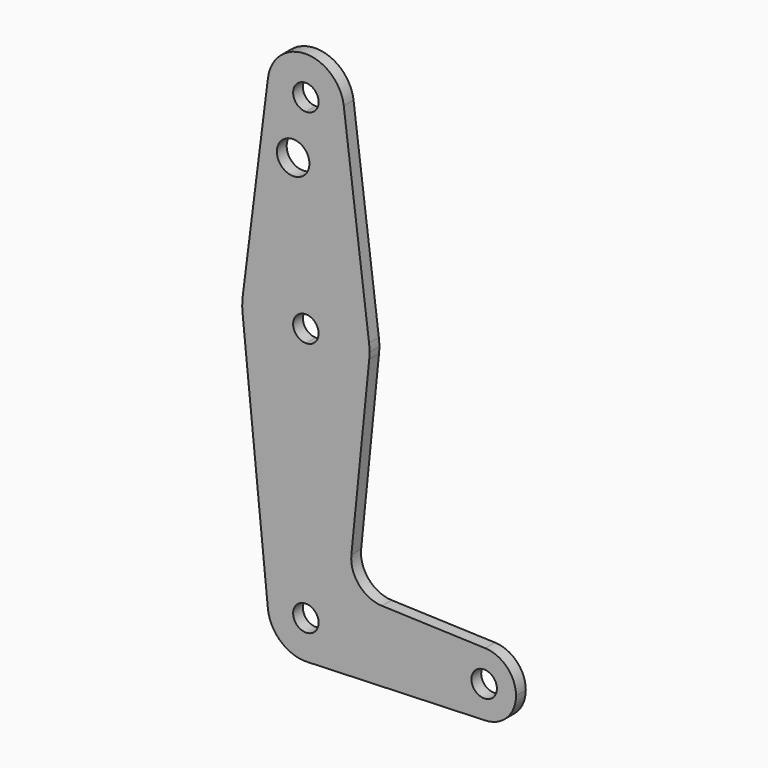
from build123d import *

# Parameters (mm, degrees)
F1_DEPTH = 3.048


with BuildPart() as f1:
    # F0 (on Front) → F1 (new body)
    with BuildSketch(Plane.XZ):
        with BuildLine():
            ThreePointArc((-9.4502929642, 67.401224344), (-7.14375, 59.9104040346), (0, 56.685599344))
            ThreePointArc((0, 56.685599344), (6.7351920908, 59.4754072532), (9.525, 66.210599344))
            ThreePointArc((9.525, 66.210599344), (9.5063048942, 66.807082586), (9.4502929642, 67.401224344))
            ThreePointArc((9.4502929642, 67.401224344), (0, 75.735599344), (-9.4502929642, 67.401224344))
        make_face()
        with BuildLine():
            ThreePointArc((3.175, 66.210599344), (2.2450640303, 63.9655353138), (0, 63.035599344))
            ThreePointArc((0, 63.035599344), (-2.2450640303, 68.4556633743), (3.175, 66.210599344))
        make_face(mode=Mode.SUBTRACT)
        with BuildLine():
            ThreePointArc((9.525, 66.210599344), (6.7351920908, 59.4754072532), (0, 56.685599344))
            Line((0, 56.685599344), (0, 54.4579379532))
            ThreePointArc((0, 54.4579379532), (0.6535739364, 53.2714002489), (0.8798499558, 51.935799344))
            ThreePointArc((0.8798499558, 51.935799344), (0.6535739364, 50.6001984391), (0, 49.4136607348))
            Line((0, 49.4136607348), (0, 31.285599344))
            ThreePointArc((0, 31.285599344), (10.5003255158, 27.316849344), (15.7504882737, 17.394974344))
            Line((15.7504882737, 17.394974344), (9.4502929642, 67.401224344))
            ThreePointArc((9.4502929642, 67.401224344), (9.5063048942, 66.807082586), (9.525, 66.210599344))
        make_face()
        with BuildLine():
            Line((0, 54.4579379532), (0, 56.685599344))
            ThreePointArc((0, 56.685599344), (-7.14375, 59.9104040346), (-9.4502929642, 67.401224344))
            Line((-9.4502929642, 67.401224344), (-15.7504882737, 17.394974344))
            ThreePointArc((-15.7504882737, 17.394974344), (-10.5003255158, 27.316849344), (0, 31.285599344))
            Line((0, 31.285599344), (0, 49.4136607348))
            ThreePointArc((0, 49.4136607348), (-7.2298499558, 51.935799344), (0, 54.4579379532))
        make_face()
        with BuildLine():
            ThreePointArc((0, 31.285599344), (-10.5003255158, 27.316849344), (-15.7504882737, 17.394974344))
            ThreePointArc((-15.7504882737, 17.394974344), (-15.8737438155, 15.6103048308), (-15.7954255641, 13.823099344))
            ThreePointArc((-15.7954255641, 13.823099344), (-10.6492737428, 3.6373842458), (0, -0.464400656))
            Line((0, -0.464400656), (0, 12.235599344))
            ThreePointArc((0, 12.235599344), (-3.175, 15.410599344), (0, 18.585599344))
            Line((0, 18.585599344), (0, 31.285599344))
        make_face()
        with BuildLine():
            ThreePointArc((15.7504882737, 17.394974344), (10.5003255158, 27.316849344), (0, 31.285599344))
            Line((0, 31.285599344), (0, 18.585599344))
            ThreePointArc((0, 18.585599344), (2.2450640303, 17.6556633743), (3.175, 15.410599344))
            ThreePointArc((3.175, 15.410599344), (2.2450640303, 13.1655353138), (0, 12.235599344))
            Line((0, 12.235599344), (0, -0.464400656))
            ThreePointArc((0, -0.464400656), (10.6492737428, 3.6373842458), (15.7954255641, 13.823099344))
            ThreePointArc((15.7954255641, 13.823099344), (15.8550939106, 14.61585279), (15.875, 15.410599344))
            ThreePointArc((15.875, 15.410599344), (15.8438414904, 16.4047380807), (15.7504882737, 17.394974344))
        make_face()
        with BuildLine():
            ThreePointArc((0, -0.464400656), (-10.6492737428, 3.6373842458), (-15.7954255641, 13.823099344))
            Line((-15.7954255641, 13.823099344), (-9.4772553384, -49.041900656))
            ThreePointArc((-9.4772553384, -49.041900656), (-7.063929059, -41.6998364103), (0, -38.564400656))
            Line((0, -38.564400656), (0, -0.464400656))
        make_face()
        with BuildLine():
            ThreePointArc((15.7954255641, 13.823099344), (10.6492737428, 3.6373842458), (0, -0.464400656))
            Line((0, -0.464400656), (0, -38.564400656))
            ThreePointArc((0, -38.564400656), (6.7351920908, -41.3542085652), (9.525, -48.089400656))
            Line((9.525, -48.089400656), (36.5125, -48.089400656))
            ThreePointArc((36.5125, -48.089400656), (38.9384772185, -42.3773937513), (44.7334821429, -40.1569644523))
            Line((44.7334821429, -40.1569644523), (18.9676000005, -39.2361669451))
            ThreePointArc((18.9676000005, -39.2361669451), (13.2611998974, -36.5180415061), (11.3411865923, -30.4960188436))
            Line((11.3411865923, -30.4960188436), (15.7954255641, 13.823099344))
        make_face()
        with BuildLine():
            ThreePointArc((0, -38.564400656), (-7.063929059, -41.6998364103), (-9.4772553384, -49.041900656))
            ThreePointArc((-9.4772553384, -49.041900656), (-6.2623833816, -55.266320565), (0.3401785714, -57.6083241003))
            ThreePointArc((0.3401785714, -57.6083241003), (6.8544082857, -54.7032279937), (9.525, -48.089400656))
            Line((9.525, -48.089400656), (3.175, -48.089400656))
            ThreePointArc((3.175, -48.089400656), (-2.2450640303, -50.3344646862), (0, -44.914400656))
            Line((0, -44.914400656), (0, -38.564400656))
        make_face()
        with BuildLine():
            ThreePointArc((9.525, -48.089400656), (6.8544082857, -54.7032279937), (0.3401785714, -57.6083241003))
            Line((0.3401785714, -57.6083241003), (44.7334821429, -56.0218368596))
            ThreePointArc((44.7334821429, -56.0218368596), (38.9384772185, -53.8014075607), (36.5125, -48.089400656))
            Line((36.5125, -48.089400656), (9.525, -48.089400656))
        make_face()
        with BuildLine():
            ThreePointArc((36.5125, -48.089400656), (38.9384772185, -53.8014075607), (44.7334821429, -56.0218368596))
            ThreePointArc((44.7334821429, -56.0218368596), (50.1620069047, -53.6009234374), (52.3875, -48.089400656))
            ThreePointArc((52.3875, -48.089400656), (50.1620069047, -42.5778778745), (44.7334821429, -40.1569644523))
            ThreePointArc((44.7334821429, -40.1569644523), (38.9384772185, -42.3773937513), (36.5125, -48.089400656))
        make_face()
        with BuildLine():
            ThreePointArc((47.625, -48.089400656), (44.45, -51.264400656), (41.275, -48.089400656))
            ThreePointArc((41.275, -48.089400656), (44.45, -44.914400656), (47.625, -48.089400656))
        make_face(mode=Mode.SUBTRACT)
        with BuildLine():
            ThreePointArc((9.525, -48.089400656), (6.7351920908, -41.3542085652), (0, -38.564400656))
            Line((0, -38.564400656), (0, -44.914400656))
            ThreePointArc((0, -44.914400656), (2.2450640303, -45.8443366257), (3.175, -48.089400656))
            Line((3.175, -48.089400656), (9.525, -48.089400656))
        make_face()
    extrude(amount=F1_DEPTH)


solid = f1.part
